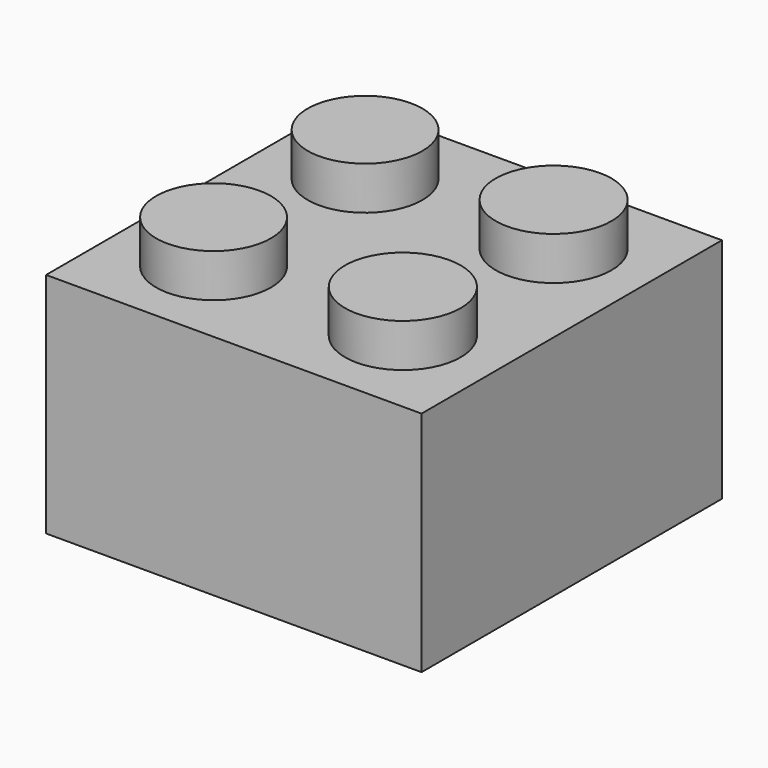
from build123d import *

# Parameters (mm, degrees)
F1_W     = 15.8
F1_H     = 15.8
F2_DEPTH = 9.58
F0_R     = 2.4150125628
F0_R_2   = 2.435
F3_DEPTH = 11.4
F4_T     = -1.4
F5_R     = 3.135
F6_DEPTH = 7.54
F7_R     = 2.415
F8_DEPTH = 4.7


with BuildPart() as f2:
    # F1 (on Top) → F2 (new body)
    with BuildSketch(Plane.XY):
        Rectangle(F1_W, F1_H)
    extrude(amount=F2_DEPTH)

    # F0 (on Top) → F3 (join)
    with BuildSketch(Plane.XY):
        with Locations((-3.9849874372, 3.9849874372)):
            Circle(F0_R)
        with Locations((3.965, 3.965)):
            Circle(F0_R_2)
        with Locations((3.965, -3.965)):
            Circle(F0_R_2)
        with Locations((-3.9849874372, -3.9849874372)):
            Circle(F0_R)
    extrude(amount=F3_DEPTH)

    # F4
    f4_openings = [f2.faces().sort_by_distance(p)[0] for p in [
        (0, 0, 0),
    ]]
    offset(amount=F4_T, openings=f4_openings, kind=Kind.INTERSECTION)

    # F5 (on face) → F6 (join)
    with BuildSketch(Plane(origin=(0, 0, 8.18), x_dir=(1, 0, 0), z_dir=(0, 0, -1))):
        Circle(F5_R)
    extrude(amount=F6_DEPTH)

    # F7 (on face) → F8 (cut)
    with BuildSketch(Plane(origin=(0, 0, 0.64), x_dir=(1, 0, 0), z_dir=(0, 0, -1))):
        Circle(F7_R)
    extrude(amount=-F8_DEPTH, mode=Mode.SUBTRACT)


solid = f2.part
